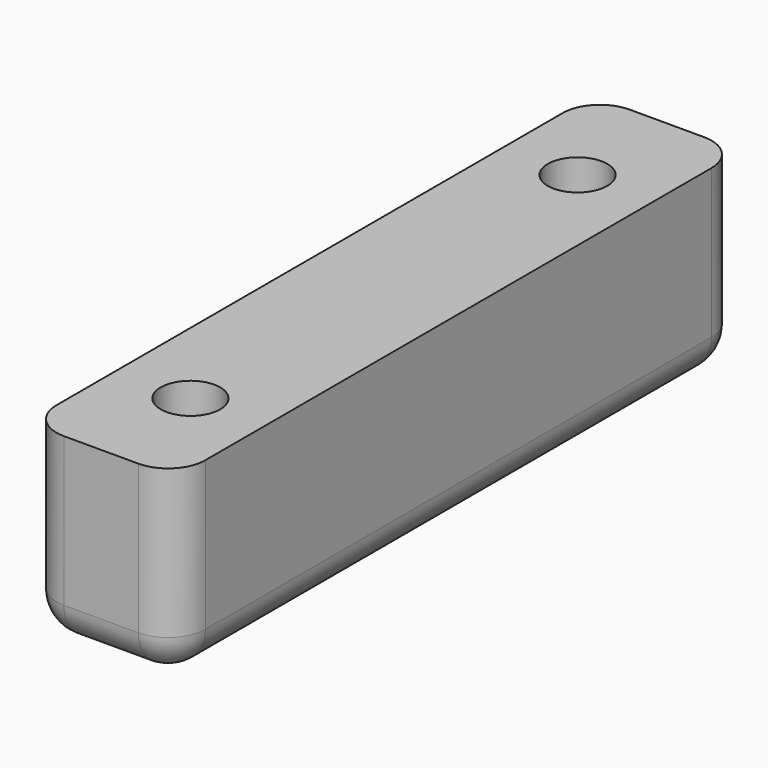
from build123d import *

# Parameters (mm, degrees)
CYLINDER051_R          = 0.8
CYLINDER051_DEPTH      = 10
CYLINDER050_R          = 0.8
CYLINDER050_DEPTH      = 10
CYLINDER047_R          = 0.75
CYLINDER047_DEPTH      = 10
CYLINDER046_R          = 0.75
CYLINDER046_DEPTH      = 10
BOX020_W               = 4
BOX020_H               = 19
BOX020_DEPTH           = 5
FILLET008_R            = 1
FILLET009_R            = 1
FILLET010_R            = 1
FILLET011_R            = 1
CUT066_PLACEMENT_ANGLE = 180


with BuildPart() as cilindro051:
    # Cylinder051 → Cylinder051 (new body)
    with BuildSketch(Plane(origin=(11, -17, -17), x_dir=(1, 0, 0), z_dir=(0, 0, 1))):
        Circle(CYLINDER051_R)
    extrude(amount=CYLINDER051_DEPTH)


with BuildPart() as cilindro050:
    # Cylinder050 → Cylinder050 (new body)
    with BuildSketch(Plane(origin=(11, -4, -17), x_dir=(1, 0, 0), z_dir=(0, 0, 1))):
        Circle(CYLINDER050_R)
    extrude(amount=CYLINDER050_DEPTH)


with BuildPart() as cilindro047:
    # Cylinder047 → Cylinder047 (new body)
    with BuildSketch(Plane(origin=(-39, 66, 48), x_dir=(1, 0, 0), z_dir=(0, 0, 1))):
        Circle(CYLINDER047_R)
    extrude(amount=CYLINDER047_DEPTH)


with BuildPart() as cilindro046:
    # Cylinder046 → Cylinder046 (new body)
    with BuildSketch(Plane(origin=(-39, 53, 48), x_dir=(1, 0, 0), z_dir=(0, 0, 1))):
        Circle(CYLINDER046_R)
    extrude(amount=CYLINDER046_DEPTH)


with BuildPart() as cut070:
    # Box020 → Box020 (new body)
    with BuildSketch(Plane(origin=(-2, 50, 45), x_dir=(1, 0, 0), z_dir=(0, 0, 1))):
        with Locations((2, 9.5)):
            Rectangle(BOX020_W, BOX020_H)
    extrude(amount=BOX020_DEPTH)

    # Fillet008
    fillet008_edges = [cut070.edges().sort_by_distance(p)[0] for p in [
        (2, 59.5, 50),
    ]]
    fillet(fillet008_edges, radius=FILLET008_R)

    # Fillet009
    fillet009_edges = [cut070.edges().sort_by_distance(p)[0] for p in [
        (-2, 59.5, 50),
    ]]
    fillet(fillet009_edges, radius=FILLET009_R)

    # Fillet010
    fillet010_edges = [cut070.edges().sort_by_distance(p)[0] for p in [
        (0, 69, 50),
    ]]
    fillet(fillet010_edges, radius=FILLET010_R)

    # Fillet011
    fillet011_edges = [cut070.edges().sort_by_distance(p)[0] for p in [
        (0, 50, 50),
    ]]
    fillet(fillet011_edges, radius=FILLET011_R)


with BuildPart() as cut070_1:
    # Fillet011 placement: moved
    add(cut070.part.moved(Location((-39, 0, 0))))

    # Cut065: cut Cilindro046
    add(cilindro046.part, mode=Mode.SUBTRACT)

    # Cut066: cut Cilindro047
    add(cilindro047.part, mode=Mode.SUBTRACT)


with BuildPart() as cut070_2:
    # Cut066 placement: moved
    add(cut070_1.part.moved(Location((-28, -70, 35))).rotate(Axis((-28, -70, 35), (0, 1, 0)), CUT066_PLACEMENT_ANGLE))

    # Cut069: cut Cilindro050
    add(cilindro050.part, mode=Mode.SUBTRACT)

    # Cut070: cut Cilindro051
    add(cilindro051.part, mode=Mode.SUBTRACT)


solid = cut070_2.part
